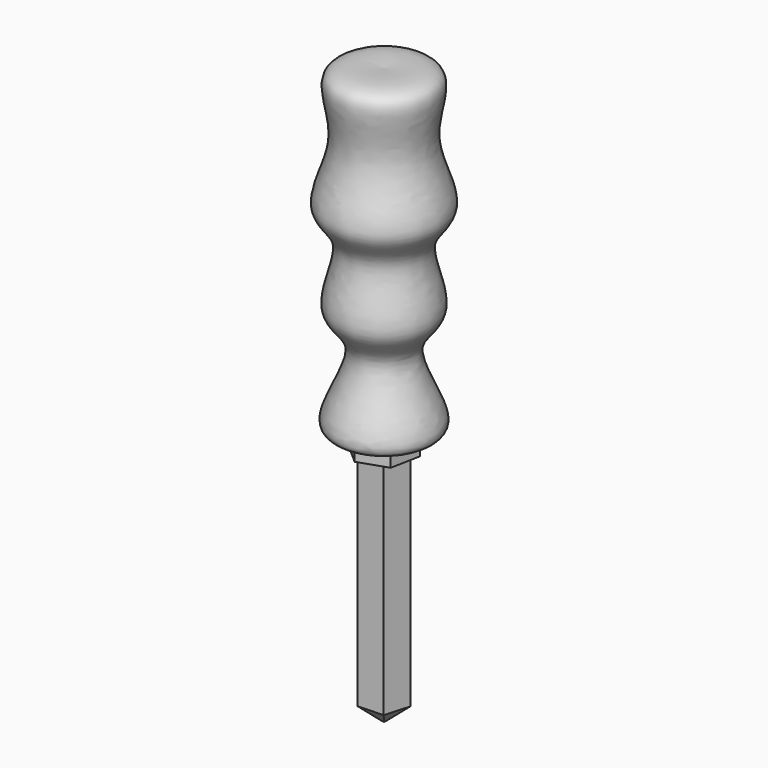
from build123d import *

# Parameters (mm, degrees)
F3_DEPTH = 30.48
F5_DEPTH = 50.8
F6_SIZE  = 3.556


with BuildPart() as f1:
    # F0 (on Front) → F1 (revolve)
    with BuildSketch(Plane.XZ):
        with BuildLine():
            Line((0, 3.7341562565), (0, 71.6602951288))
            add(Edge.make_bspline(
                [(0, 71.6602951288), (-4.3608327294, 71.9579862025), (-13.4363429383, 72.5775234665), (-6.5320632307, 58.005016544), (-15.1120219615, 45.3226872635), (-5.5645002284, 39.6701386471), (-13.5933672237, 25.4919981679), (-2.3282265586, 20.1824718177), (-15.8515758676, 2.080650172), (-5.0145331478, 3.2110813812), (0, 3.7341562565)],
                knots=[0, 0, 0, 0, 0.1195693595, 0.2488407628, 0.3853720285, 0.4895492195, 0.6232318392, 0.732698402, 0.8763137917, 1, 1, 1, 1], degree=3))
        make_face()
    revolve(axis=Axis((0, 0, 0.3556273878), (0, 0, -1)))

    # F2 (on Top) → F3 (join)
    with BuildSketch(Plane.XY):
        Polygon((6.0453360424, 2.0577885159), (1.2405708908, 6.2643088451), (-4.8047651516, 4.2065203292), (-6.0453360424, -2.0577885159), (-1.2405708908, -6.2643088451), (4.8047651516, -4.2065203292), align=None)
    extrude(amount=F3_DEPTH)

    # F4 (on face) → F5 (join)
    with BuildSketch(Plane(origin=(0, 0, 0), x_dir=(1, 0, 0), z_dir=(0, 0, -1))):
        Polygon((-4.443371042, -1.2718365597), (-0.1634887165, -4.6189160948), (4.3423294584, -1.5828105781), (2.8471959122, 3.6406853598), (-2.5826656121, 3.8328778728), align=None)
    extrude(amount=F5_DEPTH)

    # F6
    f6_edges = [f1.edges().sort_by_distance(p)[0] for p in [
        (2.08942, 3.100863, -50.8),
        (-2.30343, 2.945376, -50.8),
        (-3.513018, -1.280521, -50.8),
        (0.132265, -3.736782, -50.8),
        (3.594763, -1.028937, -50.8),
    ]]
    chamfer(f6_edges, length=F6_SIZE)


solid = f1.part
